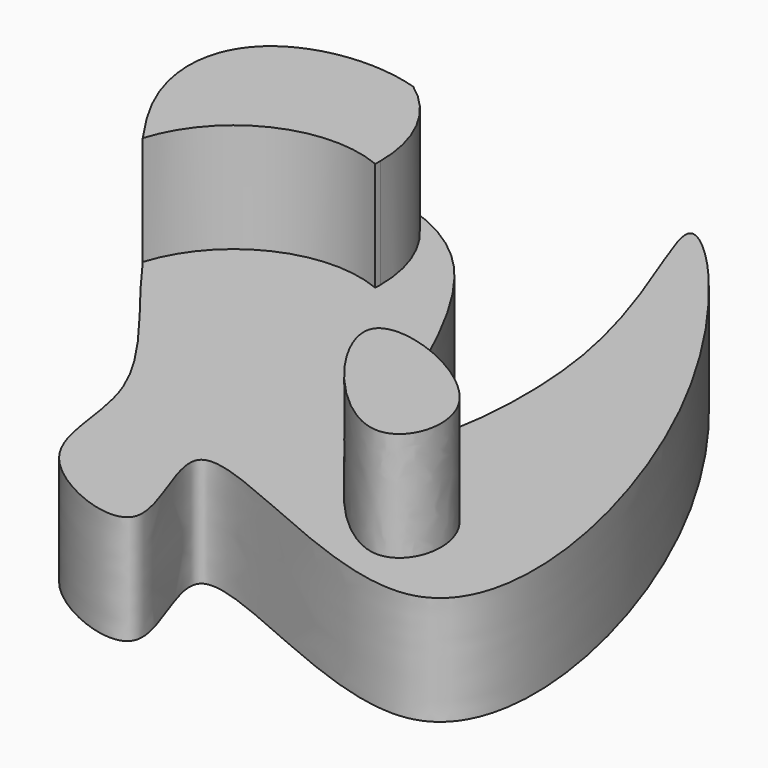
from build123d import *

# Parameters (mm, degrees)
F1_DEPTH = 25.4
F3_DEPTH = 25.4
F5_DEPTH = 25.4


with BuildPart() as f1:
    # F0 (on Top) → F1 (new body)
    with BuildSketch(Plane.XY):
        with BuildLine():
            add(Edge.make_bspline(
                [(-57.6779395342, -31.7697674036), (-64.2880922429, -14.9150386721), (-100.7702851731, 18.4523494084), (-96.1468170989, 59.6362626177), (-31.1029852527, 60.0314624457), (-5.6454356756, -49.4943071395), (8.3786226416, 32.3074445955), (-32.0356850624, 103.6056488827), (36.0585314365, 30.2356306431), (63.868001402, -99.1733878146), (-48.501173099, -23.0728797547), (-11.4100471576, -81.7332290752), (-58.376619598, -62.8875212482), (-53.0779369756, -43.4989662143), (-57.6779395342, -31.7697674036)],
                knots=[0, 0, 0, 0, 0.0957459671, 0.1597314311, 0.2417683433, 0.341848125, 0.4233306872, 0.5088035066, 0.6061621026, 0.7181056657, 0.8139244972, 0.8734164292, 0.9333704208, 1, 1, 1, 1], degree=3))
        make_face()
    extrude(amount=F1_DEPTH)

    # F2 (on face) → F3 (join)
    with BuildSketch(Plane.XY.offset(25.4)):
        with BuildLine():
            ThreePointArc((-46.1508486285, 27.1915526748), (-46.124842657, 27.9440808176), (-46.1161724671, 28.697008267))
            ThreePointArc((-46.1161724671, 28.697008267), (-49.725985499, 43.6311273873), (-59.7583588007, 55.2677140845))
            add(Edge.make_bspline(
                [(-85.512275472, 8.6924707889), (-88.893218397, 13.5062050885), (-99.4137810707, 30.5355186501), (-96.6930386326, 54.7707504363), (-71.2819480554, 58.8362674951), (-59.7583588007, 55.2677140845)],
                knots=[0.0709337113, 0.0709337113, 0.0709337113, 0.0709337113, 0.0957459671, 0.1597314311, 0.213205569, 0.213205569, 0.213205569, 0.213205569], degree=3))
            ThreePointArc((-85.512275472, 8.6924707889), (-69.9155310068, 26.6316778626), (-46.1508486285, 27.1915526748))
        make_face()
    extrude(amount=F3_DEPTH)

    # F4 (on face) → F5 (join)
    with BuildSketch(Plane.XY.offset(25.4)):
        with BuildLine():
            add(Edge.make_bspline(
                [(-5.9889582917, -23.8825753331), (-9.39666211, -30.3217507002), (20.8885435587, -69.340835099), (34.3622004391, -32.5430402429), (-2.8399644497, -17.9322566846), (-5.9889582917, -23.8825753331)],
                knots=[0, 0, 0, 0, 0.3847522653, 0.6444577996, 1, 1, 1, 1], degree=3))
        make_face()
    extrude(amount=F5_DEPTH)


solid = f1.part
